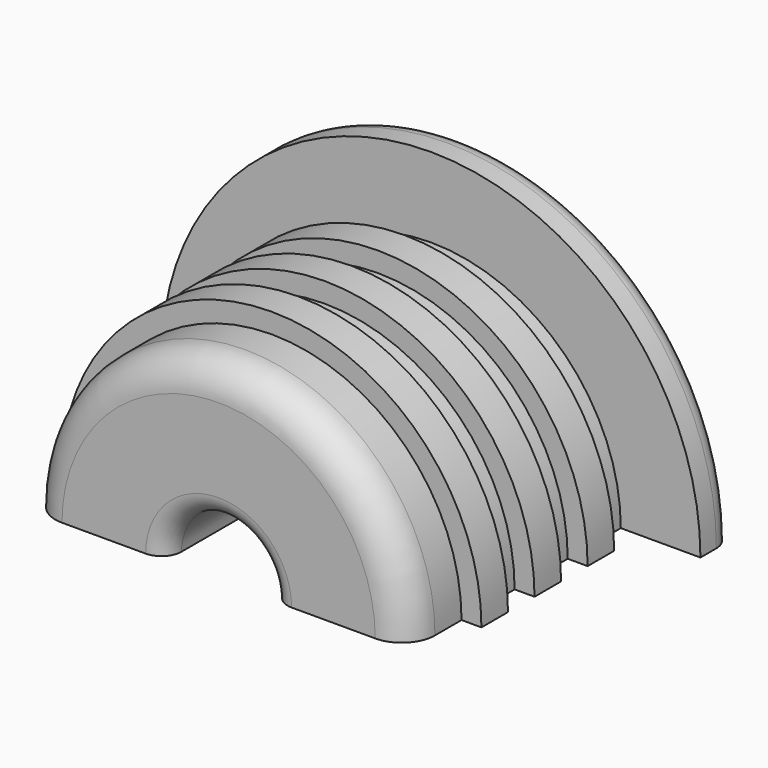
from build123d import *

# Parameters (mm, degrees)
REVOLUTION_ANGLE    = -180
REVOLUTION001_ANGLE = -180


with BuildPart() as half_cable_stopper:
    # Sketch → Revolution (revolve)
    with BuildSketch(Plane.XY):
        with BuildLine():
            Line((4, 10.25), (4, -9.75))
            ThreePointArc((4, -9.75), (4.43934, -10.81066), (5.5, -11.25))
            Line((5.5, -11.25), (11.8034, -11.25))
            ThreePointArc((11.8034, -11.25), (13.571167, -10.517767), (14.3034, -8.75))
            Line((14.3034, -8.75), (14.3034, -6.25))
            Line((14.3034, -6.25), (15.3034, -6.25))
            Line((15.3034, -6.25), (15.3034, -3.75))
            Line((15.3034, -3.75), (14.3034, -3.75))
            Line((14.3034, -3.75), (14.3034, -1.25))
            Line((14.3034, -1.25), (15.3034, -1.25))
            Line((15.3034, -1.25), (15.3034, 1.25))
            Line((15.3034, 1.25), (14.3034, 1.25))
            Line((14.3034, 1.25), (14.3034, 3.75))
            Line((14.3034, 3.75), (15.3034, 3.75))
            Line((15.3034, 3.75), (15.3034, 6.25))
            Line((15.3034, 6.25), (14.3034, 6.25))
            Line((14.3034, 6.25), (14.3034, 8.75))
            Line((14.3034, 8.75), (20.3034, 8.75))
            Line((20.3034, 8.75), (20.3034, 10.25))
            ThreePointArc((20.3034, 10.25), (19.86406, 11.31066), (18.8034, 11.75))
            Line((18.8034, 11.75), (5.5, 11.75))
            ThreePointArc((5.5, 11.75), (4.43934, 11.31066), (4, 10.25))
        make_face()
    revolve(axis=Axis((0, 0, 0), (0, 1, 0)), revolution_arc=REVOLUTION_ANGLE)


with BuildPart() as half_cable_stopper_wide:
    # Sketch001 → Revolution001 (revolve)
    with BuildSketch(Plane.XY):
        with BuildLine():
            Line((4, 10.25), (4, -9.75))
            ThreePointArc((4, -9.75), (4.43934, -10.81066), (5.5, -11.25))
            Line((5.5, -11.25), (11.8034, -11.25))
            ThreePointArc((11.8034, -11.25), (13.571167, -10.517767), (14.3034, -8.75))
            Line((14.3034, -8.75), (14.3034, -6.25))
            Line((14.3034, -6.25), (15.8034, -6.25))
            Line((15.8034, -6.25), (15.8034, -3.75))
            Line((15.8034, -3.75), (14.3034, -3.75))
            Line((14.3034, -3.75), (14.3034, -1.25))
            Line((14.3034, -1.25), (15.8034, -1.25))
            Line((15.8034, -1.25), (15.8034, 1.25))
            Line((15.8034, 1.25), (14.3034, 1.25))
            Line((14.3034, 1.25), (14.3034, 3.75))
            Line((14.3034, 3.75), (15.8034, 3.75))
            Line((15.8034, 3.75), (15.8034, 6.25))
            Line((15.8034, 6.25), (14.3034, 6.25))
            Line((14.3034, 6.25), (14.3034, 8.75))
            Line((14.3034, 8.75), (20.3034, 8.75))
            Line((20.3034, 8.75), (20.3034, 10.25))
            ThreePointArc((20.3034, 10.25), (19.86406, 11.31066), (18.8034, 11.75))
            Line((18.8034, 11.75), (5.5, 11.75))
            ThreePointArc((5.5, 11.75), (4.43934, 11.31066), (4, 10.25))
        make_face()
    revolve(axis=Axis((0, 0, 0), (0, 1, 0)), revolution_arc=REVOLUTION001_ANGLE)


solid = Compound([half_cable_stopper.part, half_cable_stopper_wide.part])
